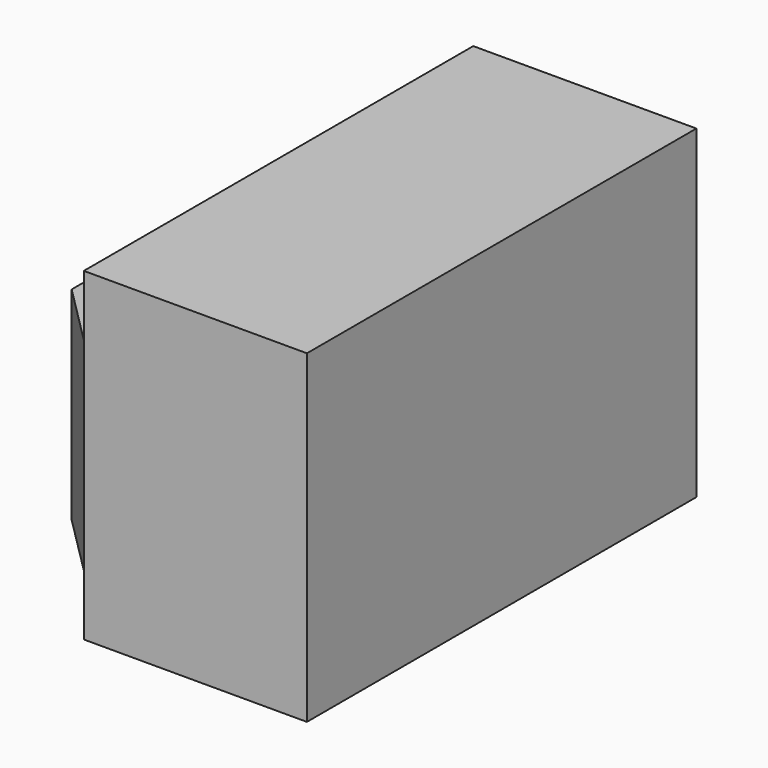
from build123d import *

# Parameters (mm, degrees)
F1_DEPTH = 304.8
F0_W     = 38.1
F0_H     = 127
F2_DEPTH = 304.8
F3_W     = 38.1
F3_H     = 12.7
F4_DEPTH = 165.101


with BuildPart() as f1:
    # F0 (on Front) → F1 (new body)
    with BuildSketch(Plane.XZ):
        Polygon((51.189408, 97.00968), (-88.510592, 97.00968), (-88.510592, 58.90968), (-88.510592, -68.09032), (-88.510592, -106.19032), (51.189408, -106.19032), align=None)
    extrude(amount=F1_DEPTH)

    # F0 (on Front) → F2 (join)
    with BuildSketch(Plane.XZ):
        with Locations((-107.560592, -4.59032)):
            Rectangle(F0_W, F0_H)
    extrude(amount=F2_DEPTH)

    # F3 (on face) → F4 (cut, through all)
    with BuildSketch(Plane.XY.offset(58.90968)):
        with Locations((-107.560592, -6.35)):
            Rectangle(F3_W, F3_H)
        Polygon((-88.510592, -304.8), (-126.610592, -266.7), (-126.610592, -304.8), align=None)
    extrude(amount=-F4_DEPTH, mode=Mode.SUBTRACT)


solid = f1.part
